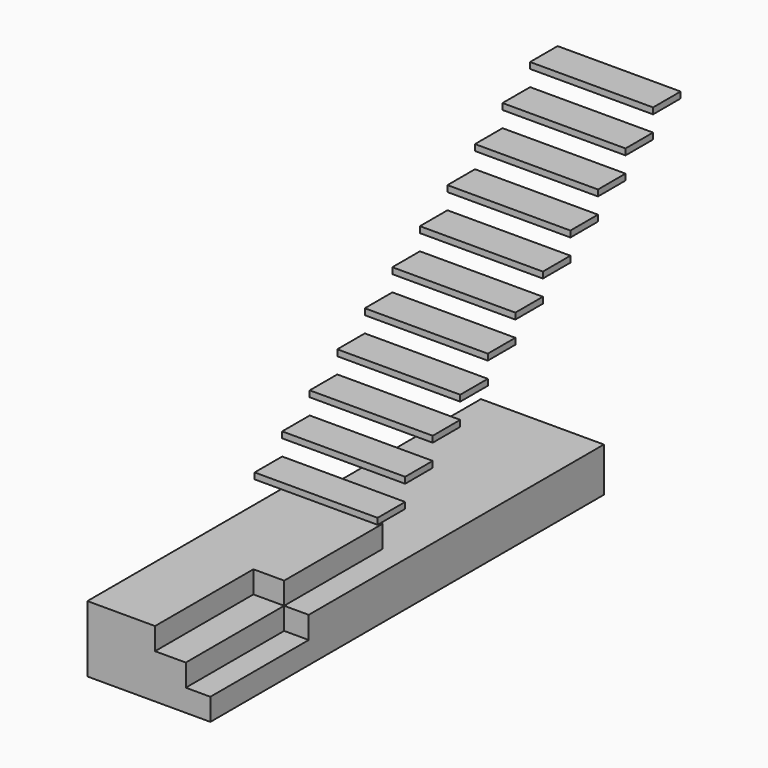
from build123d import *

# Parameters (mm, degrees)
F0_W          = 200
F0_H          = 18
F1_DEPTH      = 80
F2_W          = 100
F2_H          = 18
F3_DEPTH      = 20
F4_W          = 28
F4_H          = 5
F5_DEPTH      = 80
F5_DEPTH_BACK = 20
F6_W          = 100
F6_H          = 18
F7_DEPTH      = 25
F8_W          = 300
F8_H          = 36
F9_DEPTH      = 20


with BuildPart() as f1:
    # F0 (on Right) → F1 (new body)
    with BuildSketch(Plane.YZ):
        Polygon((-250, 0), (0, 0), (150, 0), (150, 36), (-50, 36), (-250, 36), align=None)
        with Locations((-150, 45)):
            Rectangle(F0_W, F0_H)
    extrude(amount=-F1_DEPTH)

    # F2 (on face) → F3 (join)
    with BuildSketch(Plane.YZ):
        with Locations((-200, 9)):
            Rectangle(F2_W, F2_H)
    extrude(amount=F3_DEPTH)

    # F6 (on Right) → F7 (cut)
    with BuildSketch(Plane.YZ):
        with Locations((-200, 45)):
            Rectangle(F6_W, F6_H)
    extrude(amount=-F7_DEPTH, mode=Mode.SUBTRACT)

    # F8 (on Right) → F9 (join)
    with BuildSketch(Plane.YZ):
        with Locations((0, 18)):
            Rectangle(F8_W, F8_H)
    extrude(amount=F9_DEPTH)


with BuildPart() as f5:
    # F4 (on Right) → F5 (new body, two sides)
    with BuildSketch(Plane.YZ) as f5_sk:
        with Locations((-66, 74.5)):
            Rectangle(F4_W, F4_H)
    extrude(amount=-F5_DEPTH)
    extrude(f5_sk.sketch, amount=F5_DEPTH_BACK)


with BuildPart() as f5b:
    # F4 (on Right) → F5, piece 2 (new body, two sides)
    with BuildSketch(Plane.YZ) as f5_2_sk:
        with Locations((-38, 92.5)):
            Rectangle(F4_W, F4_H)
    extrude(amount=-F5_DEPTH)
    extrude(f5_2_sk.sketch, amount=F5_DEPTH_BACK)


with BuildPart() as f5c:
    # F4 (on Right) → F5, piece 3 (new body, two sides)
    with BuildSketch(Plane.YZ) as f5_3_sk:
        with Locations((-10, 110.5)):
            Rectangle(F4_W, F4_H)
    extrude(amount=-F5_DEPTH)
    extrude(f5_3_sk.sketch, amount=F5_DEPTH_BACK)


with BuildPart() as f5d:
    # F4 (on Right) → F5, piece 4 (new body, two sides)
    with BuildSketch(Plane.YZ) as f5_4_sk:
        with Locations((18, 128.5)):
            Rectangle(F4_W, F4_H)
    extrude(amount=-F5_DEPTH)
    extrude(f5_4_sk.sketch, amount=F5_DEPTH_BACK)


with BuildPart() as f5e:
    # F4 (on Right) → F5, piece 5 (new body, two sides)
    with BuildSketch(Plane.YZ) as f5_5_sk:
        with Locations((46, 146.5)):
            Rectangle(F4_W, F4_H)
    extrude(amount=-F5_DEPTH)
    extrude(f5_5_sk.sketch, amount=F5_DEPTH_BACK)


with BuildPart() as f5f:
    # F4 (on Right) → F5, piece 6 (new body, two sides)
    with BuildSketch(Plane.YZ) as f5_6_sk:
        with Locations((74, 164.5)):
            Rectangle(F4_W, F4_H)
    extrude(amount=-F5_DEPTH)
    extrude(f5_6_sk.sketch, amount=F5_DEPTH_BACK)


with BuildPart() as f5g:
    # F4 (on Right) → F5, piece 7 (new body, two sides)
    with BuildSketch(Plane.YZ) as f5_7_sk:
        with Locations((102, 182.5)):
            Rectangle(F4_W, F4_H)
    extrude(amount=-F5_DEPTH)
    extrude(f5_7_sk.sketch, amount=F5_DEPTH_BACK)


with BuildPart() as f5h:
    # F4 (on Right) → F5, piece 8 (new body, two sides)
    with BuildSketch(Plane.YZ) as f5_8_sk:
        with Locations((130, 200.5)):
            Rectangle(F4_W, F4_H)
    extrude(amount=-F5_DEPTH)
    extrude(f5_8_sk.sketch, amount=F5_DEPTH_BACK)


with BuildPart() as f5i:
    # F4 (on Right) → F5, piece 9 (new body, two sides)
    with BuildSketch(Plane.YZ) as f5_9_sk:
        with Locations((158, 218.5)):
            Rectangle(F4_W, F4_H)
    extrude(amount=-F5_DEPTH)
    extrude(f5_9_sk.sketch, amount=F5_DEPTH_BACK)


with BuildPart() as f5j:
    # F4 (on Right) → F5, piece 10 (new body, two sides)
    with BuildSketch(Plane.YZ) as f5_10_sk:
        with Locations((186, 236.5)):
            Rectangle(F4_W, F4_H)
    extrude(amount=-F5_DEPTH)
    extrude(f5_10_sk.sketch, amount=F5_DEPTH_BACK)


with BuildPart() as f5k:
    # F4 (on Right) → F5, piece 11 (new body, two sides)
    with BuildSketch(Plane.YZ) as f5_11_sk:
        with Locations((214, 254.5)):
            Rectangle(F4_W, F4_H)
    extrude(amount=-F5_DEPTH)
    extrude(f5_11_sk.sketch, amount=F5_DEPTH_BACK)


solid = Compound([f1.part, f5.part, f5b.part, f5c.part, f5d.part, f5e.part, f5f.part, f5g.part, f5h.part, f5i.part, f5j.part, f5k.part])
